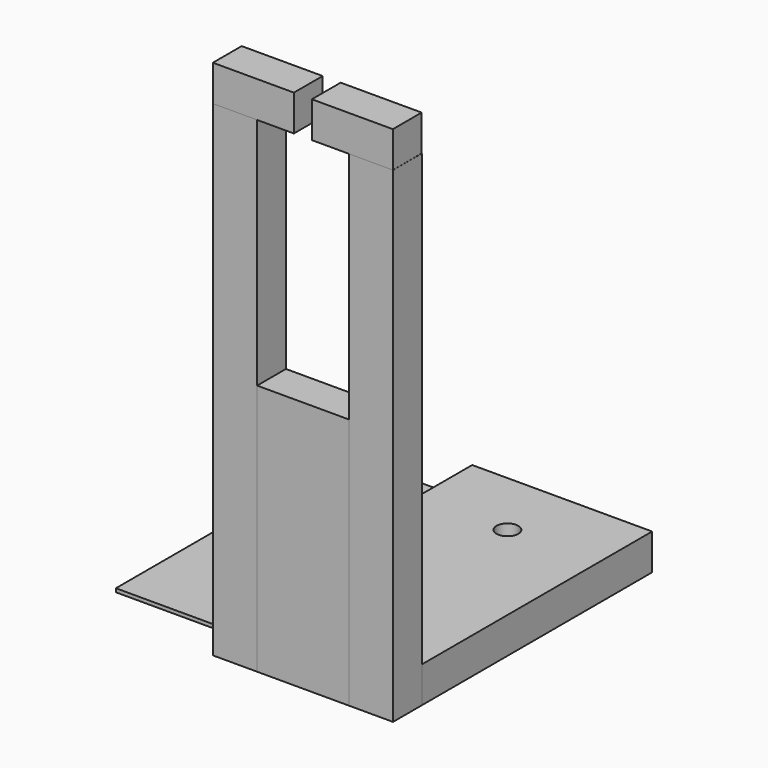
from build123d import *

# Parameters (mm, degrees)
F0_W     = 35
F0_H     = 80
F1_DEPTH = 1
F0_W_2   = 12.25
F0_H_2   = 10
F2_DEPTH = 135
F5_DEPTH = 10
F4_W     = 22.5
F4_H     = 10
F6_DEPTH = 70
F0_R     = 3.02
F7_DEPTH = 10


with BuildPart() as f1:
    # F0 (on Top) → F1 (new body)
    with BuildSketch(Plane.XY):
        with Locations((-42.5, 0)):
            Rectangle(F0_W, F0_H)
    extrude(amount=F1_DEPTH)

    # F0 (on Top) → F2 (join)
    with BuildSketch(Plane.XY):
        with Locations((-18.875, -45)):
            Rectangle(F0_W_2, F0_H_2)
    extrude(amount=F2_DEPTH)


with BuildPart() as f2:
    # F0 (on Top) → F2, piece 2 (new body)
    with BuildSketch(Plane.XY):
        with Locations((18.875, -45)):
            Rectangle(F0_W_2, F0_H_2)
    extrude(amount=F2_DEPTH)


with BuildPart() as f5:
    # F4 (on offset) → F5 (new body)
    with BuildSketch(Plane.XY.offset(135)):
        Polygon((-2.525261566, -40.0230214), (-25.025261566, -40.0230214), (-25.025261566, -50.0230214), (-12.775261566, -50.0230214), (-2.525261566, -50.0230214), align=None)
    extrude(amount=F5_DEPTH)


with BuildPart() as f5b:
    # F4 (on offset) → F5, piece 2 (new body)
    with BuildSketch(Plane.XY.offset(135)):
        with Locations((13.724738434, -45.0230214)):
            Rectangle(F4_W, F4_H)
    extrude(amount=F5_DEPTH)


with BuildPart() as f6:
    # F0 (on Top) → F6 (new body)
    with BuildSketch(Plane.XY):
        Polygon((12.75, -40), (0, -40), (-12.75, -40), (-12.75, -50), (0, -50), (12.75, -50), align=None)
    extrude(amount=F6_DEPTH)


with BuildPart() as f7:
    # F0 (on Top) → F7 (new body)
    with BuildSketch(Plane.XY):
        Polygon((-12.75, -40), (0, -40), (12.75, -40), (25, -40), (25, 40), (-25, 40), (-25, -40), align=None)
        with Locations((0, 21)):
            Circle(F0_R, mode=Mode.SUBTRACT)
    extrude(amount=F7_DEPTH)


solid = Compound([f1.part, f2.part, f5.part, f5b.part, f6.part, f7.part])
